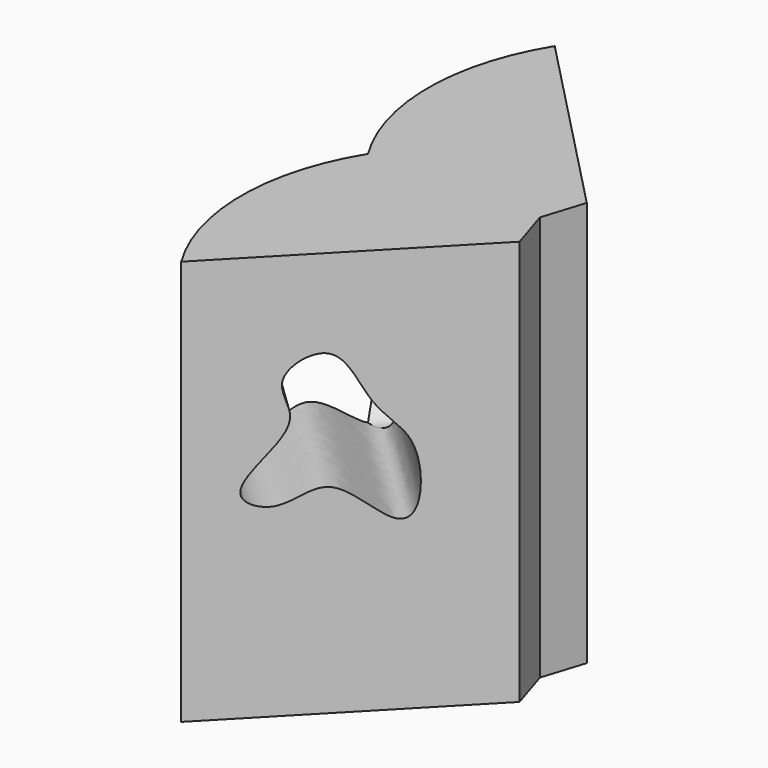
from build123d import *

# Parameters (mm, degrees)
F1_DEPTH = 74.93
F3_DEPTH = 55.118
F4_W     = 45.3323423862
F4_H     = 85.1671397686
F5_DEPTH = 70.866


with BuildPart() as f1:
    # F0 (on Top) → F1 (new body)
    with BuildSketch(Plane.XY):
        with BuildLine():
            Line((34.2488884926, 7.7707557939), (0, 43.1708656251))
            ThreePointArc((0, 43.1708656251), (-6.1256361947, 21.5854328126), (0, 0))
            Line((0, 0), (21.8732375652, -6.9073382765))
            Line((21.8732375652, -6.9073382765), (21.8732375652, -31.3708260655))
            Line((21.8732375652, -31.3708260655), (34.2488884926, 7.7707557939))
        make_face()
    extrude(amount=F1_DEPTH)

    # F2 (on face) → F3 (cut)
    with BuildSketch(Plane(origin=(21.5736415575, 20.8720607819, 0), x_dir=(-0.6953241074, 0.7186963097, 0), z_dir=(0.7186963097, 0.6953241074, 0))):
        with BuildLine():
            add(Edge.make_bspline(
                [(16.210258007, 54.7877773643), (15.5000469768, 57.0095194883), (7.9026852056, 61.7687162824), (3.7470848857, 48.8448561376), (-3.9225276842, 44.8165025292), (-4.3772043182, 32.0845936666), (0.4893591793, 29.7258745124), (9.3903716551, 40.0706329334), (16.4299942245, 32.6984178942), (24.8984211418, 35.9283158512), (18.1009680844, 42.9374829403), (13.6637252496, 48.7107194799), (16.8338892603, 52.8368814105), (16.210258007, 54.7877773643)],
                knots=[0, 0, 0, 0, 0.0907575355, 0.1975592463, 0.2952271332, 0.4029406721, 0.463519656, 0.5719422637, 0.6662841187, 0.7433796414, 0.8337728574, 0.9203064537, 1, 1, 1, 1], degree=3))
        make_face()
    extrude(amount=-F3_DEPTH, mode=Mode.SUBTRACT)

    # F4 (on Right) → F5 (cut)
    with BuildSketch(Plane.YZ):
        with Locations((-22.6661711931, 42.5835698843)):
            Rectangle(F4_W, F4_H)
    extrude(amount=F5_DEPTH, mode=Mode.SUBTRACT)

    # F6: F1 across plane


with BuildPart() as f1_1:
    add(f1.part)
    add(f1.part.mirror(Plane.XZ))


solid = f1_1.part
